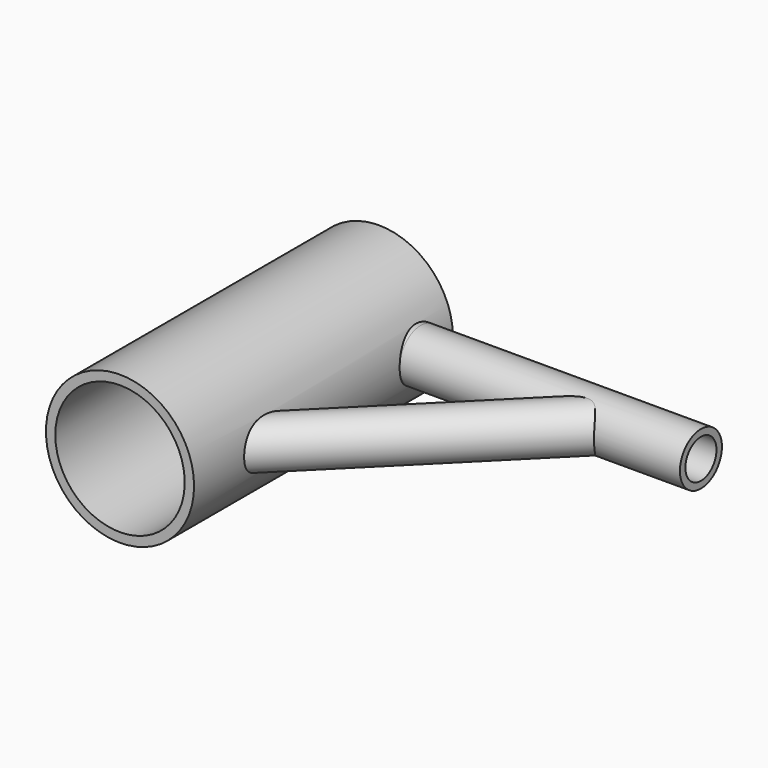
from build123d import *

# Parameters (mm, degrees)
F0_R          = 29.0718319872
F1_DEPTH      = 63.5
F3_D          = 50.8
F6_R          = 10.3012460199
F7_DEPTH      = 110.01212
F7_DEPTH_BACK = 2.28984
F11_START     = 10.10954
F10_R         = 9.3240211729
F11_DEPTH     = 116.89046
F13_D         = 15.24
F13_DEPTH     = 127
F13_TIP       = 4.578557917
F14_R         = 25.4
F15_DEPTH     = 127


with BuildPart() as f1:
    # F0 (on Front) → F1 (new body, symmetric)
    with BuildSketch(Plane.XZ):
        Circle(F0_R)
    extrude(amount=F1_DEPTH, both=True)

    # F3 (through all)
    with Locations(Plane.XZ.offset(63.5)):
        with Locations((0, 0)):
            Hole(F3_D / 2)

    # F6 (on plane+point) → F7 (join, two sides)
    with BuildSketch(Plane.YZ.offset(29.0718319872)) as f7_sk:
        with Locations((47.6702228189, 0)):
            Circle(F6_R)
    extrude(amount=F7_DEPTH)
    extrude(f7_sk.sketch, amount=-F7_DEPTH_BACK)

    # F10 (on line) → F11 (join)
    with BuildSketch(Plane(origin=(-16.7531975657, -16.7531975657, 0), x_dir=(-0.7071067812, 0.7071067812, 0), z_dir=(0.7071067812, 0.7071067812, 0)).offset(F11_START)):
        with Locations((-38.7535318732, 0)):
            Circle(F10_R)
    extrude(amount=F11_DEPTH)

    # F13
    with Locations(Plane.YZ.offset(139.0839519872)):
        with Locations((47.6702228189, 0)):
            Hole(F13_D / 2, depth=F13_DEPTH)
            with Locations((0, 0, -(F13_DEPTH + F13_TIP / 2))):  # 118° drill point
                Cone(0, F13_D / 2, F13_TIP, mode=Mode.SUBTRACT)

    # F14 (on Front) → F15 (cut)
    with BuildSketch(Plane.XZ):
        Circle(F14_R)
    extrude(amount=F15_DEPTH, mode=Mode.SUBTRACT)


solid = f1.part
